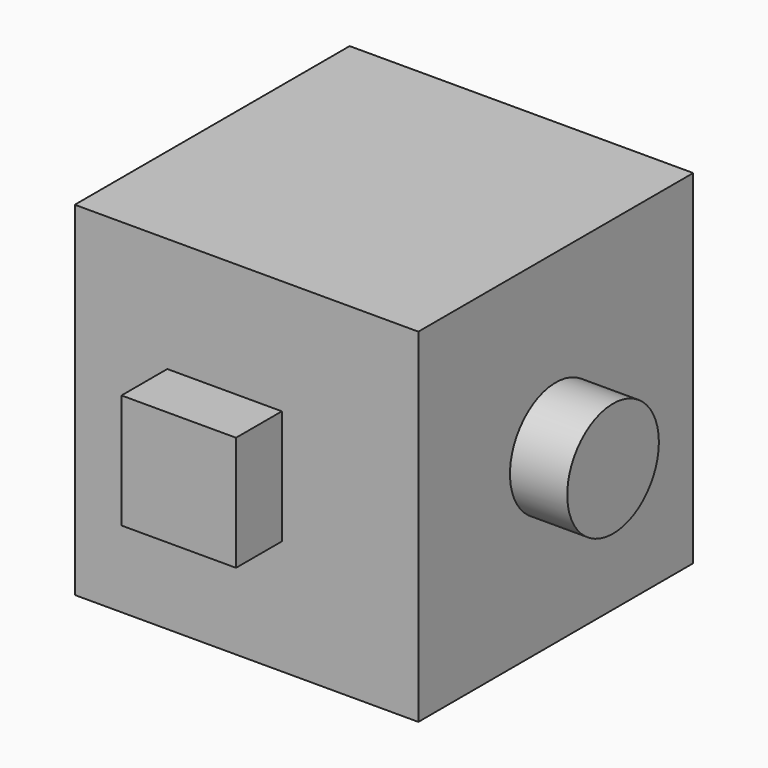
from build123d import *

# Parameters (mm, degrees)
F0_W     = 76.2
F0_H     = 76.2
F1_DEPTH = 76.2
F2_W     = 25.4
F2_H     = 25.4
F3_DEPTH = 12.7
F4_R     = 12.7
F5_DEPTH = 12.7


with BuildPart() as f1:
    # F0 (on Front) → F1 (new body)
    with BuildSketch(Plane.XZ):
        with Locations((36.421651, 55.817229)):
            Rectangle(F0_W, F0_H)
    extrude(amount=F1_DEPTH)

    # F2 (on face) → F3 (join)
    with BuildSketch(Plane.XZ.offset(76.2)):
        with Locations((31.542469, 55.817229)):
            Rectangle(F2_W, F2_H)
    extrude(amount=F3_DEPTH)

    # F4 (on face) → F5 (join)
    with BuildSketch(Plane.YZ.offset(74.521651)):
        with Locations((-38.1, 55.817229)):
            Circle(F4_R)
    extrude(amount=F5_DEPTH)


solid = f1.part
